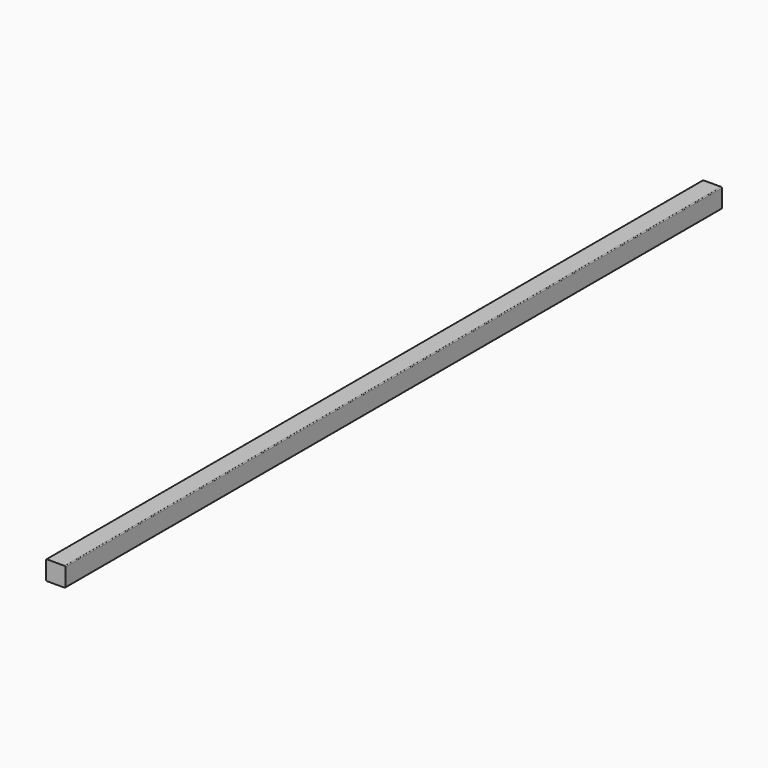
from build123d import *

# Parameters (mm, degrees)
F1_DEPTH = 406.4


with BuildPart() as f1:
    # F0 (on Front) → F1 (new body, symmetric)
    with BuildSketch(Plane.XZ):
        with BuildLine():
            Line((8.763, 9.525), (-8.763, 9.525))
            ThreePointArc((-8.763, 9.525), (-9.301815, 9.301815), (-9.525, 8.763))
            Line((-9.525, 8.763), (-9.525, -8.763))
            ThreePointArc((-9.525, -8.763), (-9.301815, -9.301815), (-8.763, -9.525))
            Line((-8.763, -9.525), (8.763, -9.525))
            ThreePointArc((8.763, -9.525), (9.301815, -9.301815), (9.525, -8.763))
            Line((9.525, -8.763), (9.525, 8.763))
            ThreePointArc((9.525, 8.763), (9.301815, 9.301815), (8.763, 9.525))
        make_face()
    extrude(amount=F1_DEPTH, both=True)


solid = f1.part
